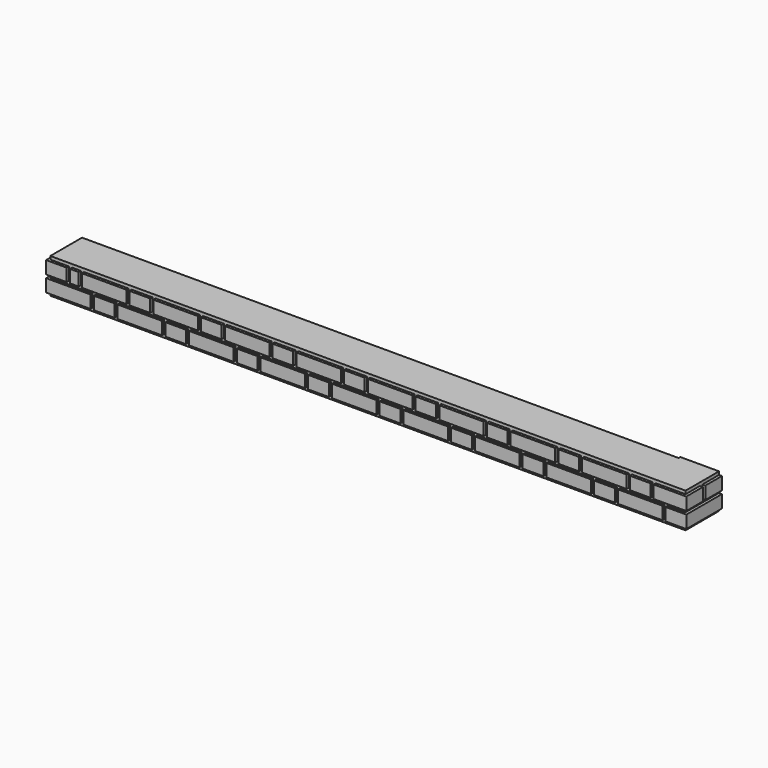
from build123d import *

# Parameters (mm, degrees)
F0_W          = 11.2
F0_H          = 5.2
F0_W_2        = 5.2
F0_H_2        = 11.2
F1_DEPTH      = 3.2
F2_W          = 150.0522792339
F2_H          = 10.0122541189
F2_W_2        = 10.665779388
F2_H_2        = 4.7092583658
F3_DEPTH      = 0.8
F3_DEPTH_BACK = 4
F4_W          = 5.2
F4_H          = 11.2
F4_W_2        = 11.2
F4_H_2        = 5.2
F4_W_3        = 2.2
F4_W_4        = 8.2
F4_H_3        = 11.182141
F4_H_4        = 2.2
F4_W_5        = 11.2556368113
F4_H_5        = 2.7801692486
F5_DEPTH      = 3.2
F6_W          = 150.1880139112
F6_H          = 9.9958591163
F6_W_2        = 150.0709652901
F6_H_2        = 10.0415498018
F7_DEPTH      = 0.8
F7_DEPTH_BACK = 4
F9_DEPTH      = 25


with BuildPart() as f1:
    # F0 (on Top) → F1 (new body)
    with BuildSketch(Plane.XY):
        with Locations((15, 62.999175)):
            Rectangle(F0_W, F0_H)
        with Locations((77.999536, 59.999175)):
            Rectangle(F0_W_2, F0_H_2)
        with Locations((-57, 56.999175)):
            Rectangle(F0_W, F0_H)
        with Locations((77.999536, -12.000825)):
            Rectangle(F0_W_2, F0_H_2)
        with Locations((77.999536, 23.999175)):
            Rectangle(F0_W_2, F0_H_2)
        with Locations((71.999536, 41.999175)):
            Rectangle(F0_W_2, F0_H_2)
        with Locations((77.999536, 41.999175)):
            Rectangle(F0_W_2, F0_H_2)
        with Locations((71.999536, 23.999175)):
            Rectangle(F0_W_2, F0_H_2)
        with Locations((-39, -62.999174)):
            Rectangle(F0_W, F0_H)
        with Locations((-21, 62.999175)):
            Rectangle(F0_W, F0_H)
        with Locations((15, -56.999174)):
            Rectangle(F0_W, F0_H)
        with Locations((77.999536, 5.999175)):
            Rectangle(F0_W_2, F0_H_2)
        with Locations((15, 56.999175)):
            Rectangle(F0_W, F0_H)
        with Locations((69, 62.999175)):
            Rectangle(F0_W, F0_H)
        with Locations((-21, -62.999174)):
            Rectangle(F0_W, F0_H)
        with Locations((77.999536, -30.000825)):
            Rectangle(F0_W_2, F0_H_2)
        with Locations((-39, 56.999175)):
            Rectangle(F0_W, F0_H)
        with Locations((69, 56.999175)):
            Rectangle(F0_W, F0_H)
        with Locations((51, 62.999175)):
            Rectangle(F0_W, F0_H)
        with Locations((-39, 62.999175)):
            Rectangle(F0_W, F0_H)
        with Locations((-75, -62.999174)):
            Rectangle(F0_W, F0_H)
        with Locations((69, -62.999174)):
            Rectangle(F0_W, F0_H)
        with Locations((-57, 62.999175)):
            Rectangle(F0_W, F0_H)
        with Locations((-3, 62.999175)):
            Rectangle(F0_W, F0_H)
        with Locations((51, -62.999174)):
            Rectangle(F0_W, F0_H)
        with Locations((-39, -56.999174)):
            Rectangle(F0_W, F0_H)
        with Locations((-21, 56.999175)):
            Rectangle(F0_W, F0_H)
        with Locations((33, 62.999175)):
            Rectangle(F0_W, F0_H)
        with Locations((51, 56.999175)):
            Rectangle(F0_W, F0_H)
        with Locations((15, -62.999174)):
            Rectangle(F0_W, F0_H)
        with Locations((-21, -56.999174)):
            Rectangle(F0_W, F0_H)
        with Locations((-75, 56.999175)):
            Rectangle(F0_W, F0_H)
        with Locations((33, -62.999174)):
            Rectangle(F0_W, F0_H)
        with Locations((-3, -56.999174)):
            Rectangle(F0_W, F0_H)
        with Locations((-57, -62.999174)):
            Rectangle(F0_W, F0_H)
        with Locations((-3, -62.999174)):
            Rectangle(F0_W, F0_H)
        with Locations((-75, -56.999174)):
            Rectangle(F0_W, F0_H)
        with Locations((33, -56.999174)):
            Rectangle(F0_W, F0_H)
        with Locations((33, 56.999175)):
            Rectangle(F0_W, F0_H)
        with Locations((-3, 56.999175)):
            Rectangle(F0_W, F0_H)
        with Locations((69, -56.999174)):
            Rectangle(F0_W, F0_H)
        with Locations((51, -56.999174)):
            Rectangle(F0_W, F0_H)
        with Locations((-57, -56.999174)):
            Rectangle(F0_W, F0_H)
        with Locations((78, -59.999174)):
            Rectangle(F0_W_2, F0_H_2)
        with Locations((-75, 62.999175)):
            Rectangle(F0_W, F0_H)
        with Locations((-66, -59.999174)):
            Rectangle(F0_W_2, F0_H_2)
        with Locations((6, 59.999175)):
            Rectangle(F0_W_2, F0_H_2)
        with Locations((60, 59.999175)):
            Rectangle(F0_W_2, F0_H_2)
        with Locations((74.999536, -21.000825)):
            Rectangle(F0_W, F0_H)
        with Locations((42, -59.999174)):
            Rectangle(F0_W_2, F0_H_2)
        with Locations((60, -59.999174)):
            Rectangle(F0_W_2, F0_H_2)
        with Locations((-30, -59.999174)):
            Rectangle(F0_W_2, F0_H_2)
        with Locations((-66, 59.999175)):
            Rectangle(F0_W_2, F0_H_2)
        with Locations((71.999536, 5.999175)):
            Rectangle(F0_W_2, F0_H_2)
        with Locations((42, 59.999175)):
            Rectangle(F0_W_2, F0_H_2)
        with Locations((71.999536, -12.000825)):
            Rectangle(F0_W_2, F0_H_2)
        with Locations((74.999536, -3.000825)):
            Rectangle(F0_W, F0_H)
        with Locations((71.999536, -48.000825)):
            Rectangle(F0_W_2, F0_H_2)
        with Locations((-48, -59.999174)):
            Rectangle(F0_W_2, F0_H_2)
        with Locations((77.999536, -48.000825)):
            Rectangle(F0_W_2, F0_H_2)
        with Locations((74.999536, -39.000825)):
            Rectangle(F0_W, F0_H)
        with Locations((-48, 59.999175)):
            Rectangle(F0_W_2, F0_H_2)
        with Locations((71.999536, -30.000825)):
            Rectangle(F0_W_2, F0_H_2)
        with Locations((-30, 59.999175)):
            Rectangle(F0_W_2, F0_H_2)
        with Locations((24, -59.999174)):
            Rectangle(F0_W_2, F0_H_2)
        with Locations((74.999536, 50.999175)):
            Rectangle(F0_W, F0_H)
        with Locations((24, 59.999175)):
            Rectangle(F0_W_2, F0_H_2)
        with Locations((74.999536, 14.999175)):
            Rectangle(F0_W, F0_H)
        with Locations((74.999536, 32.999175)):
            Rectangle(F0_W, F0_H)
        with Locations((-12, -59.999174)):
            Rectangle(F0_W_2, F0_H_2)
        with Locations((6, -59.999174)):
            Rectangle(F0_W_2, F0_H_2)
        with Locations((-12, 59.999175)):
            Rectangle(F0_W_2, F0_H_2)
    extrude(amount=F1_DEPTH)


with BuildPart() as f3:
    # F2 (on face) → F3 (new body, two sides)
    with BuildSketch(Plane.XY.offset(3.2)) as f3_sk:
        with Locations((-4.9431473017, -59.9343031645)):
            Rectangle(F2_W, F2_H)
        Polygon((79.8607692122, 65.1084333658), (70.0829923153, 65.1084333658), (70.0829923153, 55.0593025982), (70.0829923153, -54.928176105), (70.0829923153, -64.9404302239), (79.8607692122, -64.9404302239), align=None)
        Polygon((70.0829923153, 65.1084333658), (-69.4, 65.1084333658), (-69.4, 60.399175), (-80.065779388, 60.399175), (-80.065779388, 55.0593025982), (70.0829923153, 55.0593025982), align=None)
        with Locations((-74.732889694, 62.7538041829)):
            Rectangle(F2_W_2, F2_H_2)
    extrude(amount=F3_DEPTH)
    extrude(f3_sk.sketch, amount=-F3_DEPTH_BACK)

    # F4 (on face) → F5 (join)
    with BuildSketch(Plane.XY.offset(4)):
        with Locations((-78.009916, -60)):
            Rectangle(F4_W, F4_H)
        with Locations((-66.009916, -57)):
            Rectangle(F4_W_2, F4_H_2)
        with Locations((-66.009916, -63)):
            Rectangle(F4_W_2, F4_H_2)
        with Locations((-57.009916, -60)):
            Rectangle(F4_W, F4_H)
        with Locations((-48.009916, -57)):
            Rectangle(F4_W_2, F4_H_2)
        with Locations((-48.009916, -63)):
            Rectangle(F4_W_2, F4_H_2)
        with Locations((-39.009916, -60)):
            Rectangle(F4_W, F4_H)
        with Locations((-30.009916, -57)):
            Rectangle(F4_W_2, F4_H_2)
        with Locations((-30.009916, -63)):
            Rectangle(F4_W_2, F4_H_2)
        with Locations((-21.009916, -60)):
            Rectangle(F4_W, F4_H)
        with Locations((-12.009916, -57)):
            Rectangle(F4_W_2, F4_H_2)
        with Locations((-12.009916, -63)):
            Rectangle(F4_W_2, F4_H_2)
        with Locations((-3.009916, -60)):
            Rectangle(F4_W, F4_H)
        with Locations((5.990084, -57)):
            Rectangle(F4_W_2, F4_H_2)
        with Locations((5.990084, -63)):
            Rectangle(F4_W_2, F4_H_2)
        with Locations((14.990084, -60)):
            Rectangle(F4_W, F4_H)
        with Locations((23.990084, -57)):
            Rectangle(F4_W_2, F4_H_2)
        with Locations((23.990084, -63)):
            Rectangle(F4_W_2, F4_H_2)
        with Locations((32.990084, -60)):
            Rectangle(F4_W, F4_H)
        with Locations((41.990084, -57)):
            Rectangle(F4_W_2, F4_H_2)
        with Locations((41.990084, -63)):
            Rectangle(F4_W_2, F4_H_2)
        with Locations((50.990084, -60)):
            Rectangle(F4_W, F4_H)
        with Locations((59.990084, -57)):
            Rectangle(F4_W_2, F4_H_2)
        with Locations((59.990084, -63)):
            Rectangle(F4_W_2, F4_H_2)
        with Locations((68.990084, -63)):
            Rectangle(F4_W, F4_H_2)
        with Locations((67.528128, -56.993183)):
            Rectangle(F4_W_3, F4_H_2)
        with Locations((76.490084, -63)):
            Rectangle(F4_W_4, F4_H_2)
        with Locations((-73.509916, -57)):
            Rectangle(F4_W_3, F4_H_2)
        with Locations((-73.509916, -63)):
            Rectangle(F4_W_3, F4_H_2)
        with Locations((77.990084, -54.0089295)):
            Rectangle(F4_W, F4_H_3)
        with Locations((71.98962, -39.00165)):
            Rectangle(F4_W, F4_H)
        with Locations((74.98962, -30.00165)):
            Rectangle(F4_W_2, F4_H_2)
        with Locations((77.98962, -39.00165)):
            Rectangle(F4_W, F4_H)
        with Locations((71.98962, -21.00165)):
            Rectangle(F4_W, F4_H)
        with Locations((74.98962, -12.00165)):
            Rectangle(F4_W_2, F4_H_2)
        with Locations((77.98962, -21.00165)):
            Rectangle(F4_W, F4_H)
        with Locations((71.98962, -3.00165)):
            Rectangle(F4_W, F4_H)
        with Locations((74.98962, 5.99835)):
            Rectangle(F4_W_2, F4_H_2)
        with Locations((77.98962, -3.00165)):
            Rectangle(F4_W, F4_H)
        with Locations((71.98962, 14.99835)):
            Rectangle(F4_W, F4_H)
        with Locations((74.98962, 23.99835)):
            Rectangle(F4_W_2, F4_H_2)
        with Locations((77.98962, 14.99835)):
            Rectangle(F4_W, F4_H)
        with Locations((71.98962, 32.99835)):
            Rectangle(F4_W, F4_H)
        with Locations((74.98962, 41.99835)):
            Rectangle(F4_W_2, F4_H_2)
        with Locations((77.98962, 32.99835)):
            Rectangle(F4_W, F4_H)
        with Locations((71.98962, 50.99835)):
            Rectangle(F4_W, F4_H)
        with Locations((74.973137, 62.955858)):
            Rectangle(F4_W_2, F4_H_2)
        with Locations((77.98962, 50.99835)):
            Rectangle(F4_W, F4_H)
        with Locations((-78.009916, 60)):
            Rectangle(F4_W, F4_H)
        with Locations((-66.009916, 63)):
            Rectangle(F4_W_2, F4_H_2)
        with Locations((-66.009916, 57)):
            Rectangle(F4_W_2, F4_H_2)
        with Locations((-57.009916, 60)):
            Rectangle(F4_W, F4_H)
        with Locations((-48.009916, 63)):
            Rectangle(F4_W_2, F4_H_2)
        with Locations((-48.009916, 57)):
            Rectangle(F4_W_2, F4_H_2)
        with Locations((-39.009916, 60)):
            Rectangle(F4_W, F4_H)
        with Locations((-30.009916, 63)):
            Rectangle(F4_W_2, F4_H_2)
        with Locations((-30.009916, 57)):
            Rectangle(F4_W_2, F4_H_2)
        with Locations((-21.009916, 60)):
            Rectangle(F4_W, F4_H)
        with Locations((-12.009916, 63)):
            Rectangle(F4_W_2, F4_H_2)
        with Locations((-12.009916, 57)):
            Rectangle(F4_W_2, F4_H_2)
        with Locations((-3.009916, 60)):
            Rectangle(F4_W, F4_H)
        with Locations((5.990084, 63)):
            Rectangle(F4_W_2, F4_H_2)
        with Locations((5.990084, 57)):
            Rectangle(F4_W_2, F4_H_2)
        with Locations((14.990084, 60)):
            Rectangle(F4_W, F4_H)
        with Locations((23.990084, 63)):
            Rectangle(F4_W_2, F4_H_2)
        with Locations((23.990084, 57)):
            Rectangle(F4_W_2, F4_H_2)
        with Locations((32.990084, 60)):
            Rectangle(F4_W, F4_H)
        with Locations((41.990084, 63)):
            Rectangle(F4_W_2, F4_H_2)
        with Locations((41.990084, 57)):
            Rectangle(F4_W_2, F4_H_2)
        with Locations((50.990084, 60)):
            Rectangle(F4_W, F4_H)
        with Locations((59.990084, 63)):
            Rectangle(F4_W_2, F4_H_2)
        with Locations((59.990084, 57)):
            Rectangle(F4_W_2, F4_H_2)
        with Locations((67.407561, 62.986)):
            Rectangle(F4_W_3, F4_H_2)
        with Locations((-73.509916, 63)):
            Rectangle(F4_W_3, F4_H_2)
        with Locations((-73.509916, 57)):
            Rectangle(F4_W_3, F4_H_2)
        with Locations((71.989105, -54.0543635)):
            Rectangle(F4_W, F4_H_3)
        with Locations((67.407561, 56.957653)):
            Rectangle(F4_W_3, F4_H_2)
        with Locations((71.981569, 58.366779)):
            Rectangle(F4_W, F4_H_4)
        with Locations((78.009916, 58.366779)):
            Rectangle(F4_W, F4_H_4)
        with Locations((75.0117376447, -46.4869551361)):
            Rectangle(F4_W_5, F4_H_5)
    extrude(amount=F5_DEPTH)


with BuildPart() as f7:
    # F6 (on face) → F7 (new body, two sides)
    with BuildSketch(Plane.XY.offset(7.2)) as f7_sk:
        with Locations((-5.0002709031, -59.9234793335)):
            Rectangle(F6_W, F6_H)
        with Locations((-4.9417465925, 60.0879117846)):
            Rectangle(F6_W_2, F6_H_2)
        Polygon((79.8638984561, 65.1086866856), (70.0937360525, 65.1086866856), (70.0937360525, 55.0671368837), (70.0937360525, -54.9255497754), (70.0937360525, -64.9214088917), (79.8638984561, -64.9214088917), align=None)
        with Locations((-5.0002709031, -59.9234793335)):
            Rectangle(F6_W, F6_H)
    extrude(amount=F7_DEPTH)
    extrude(f7_sk.sketch, amount=-F7_DEPTH_BACK)


with BuildPart() as f9_tool:
    # F8 (on face) → F9 (new body)
    with BuildSketch(Plane.XY.offset(8)):
        Polygon((82.2470709682, 65.9291297197), (-80.829359591, 65.9291297197), (-80.829359591, -54.3847754598), (70.0937360525, -54.3847754598), (70.0937360525, 55.0671368837), (-79.9772292376, 55.0671368837), (-79.9772292376, 65.1086866856), (79.8638984561, 65.1086866856), (79.8638984561, -54.3847754598), (82.2470709682, -54.3847754598), align=None)
        Polygon((70.0937360525, 55.0671368837), (70.0937360525, -54.3847754598), (79.8638984561, -54.3847754598), (79.8638984561, 65.1086866856), (-79.9772292376, 65.1086866856), (-79.9772292376, 55.0671368837), align=None)
    extrude(amount=-F9_DEPTH)


with BuildPart() as f1_1:
    add(f1.part)

    # F9: cut by f9_tool
    add(f9_tool.part, mode=Mode.SUBTRACT)


with BuildPart() as f3_1:
    add(f3.part)

    # F9: cut by f9_tool
    add(f9_tool.part, mode=Mode.SUBTRACT)


with BuildPart() as f7_1:
    add(f7.part)

    # F9: cut by f9_tool
    add(f9_tool.part, mode=Mode.SUBTRACT)


solid = Compound([f1_1.part, f3_1.part, f7_1.part])
